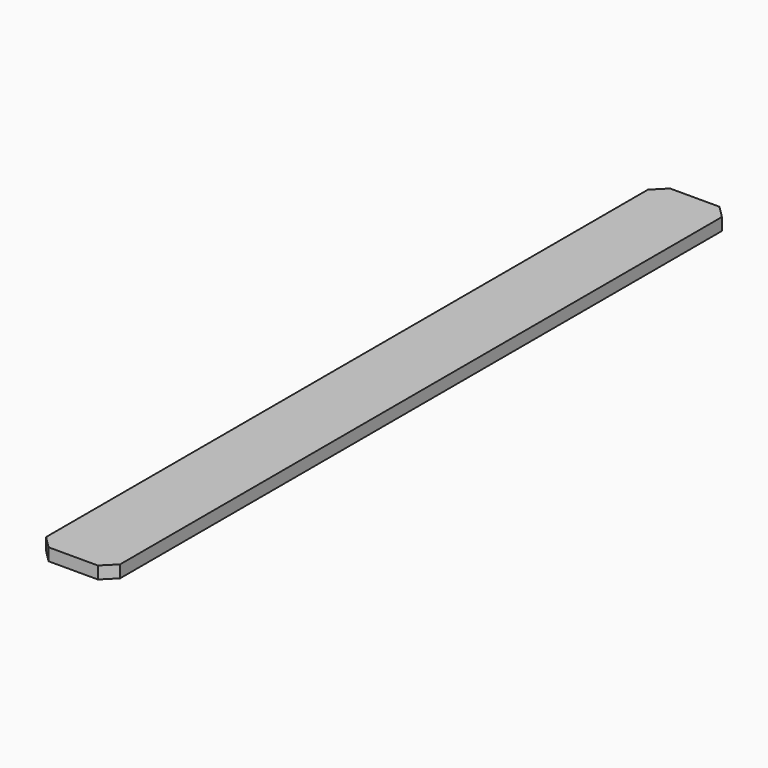
from build123d import *

# Parameters (mm, degrees)
F0_W     = 152.4
F0_H     = 1549.4
F0_H_2   = 25.4
F1_DEPTH = 25.4
F2_SIZE  = 25.4


with BuildPart() as f1:
    # F0 (on Top) → F1 (new body)
    with BuildSketch(Plane.XY):
        with Locations((-206.763415, 90.778879)):
            Rectangle(F0_W, F0_H)
        with Locations((-206.763415, -696.621121)):
            Rectangle(F0_W, F0_H_2)
        with Locations((-206.763415, 878.178879)):
            Rectangle(F0_W, F0_H_2)
    extrude(amount=F1_DEPTH)

    # F2
    f2_edges = [f1.edges().sort_by_distance(p)[0] for p in [
        (-130.563415, -709.321121, 12.7),
        (-282.963415, -709.321121, 12.7),
        (-130.563415, 890.878879, 12.7),
        (-282.963415, 890.878879, 12.7),
    ]]
    chamfer(f2_edges, length=F2_SIZE)


solid = f1.part
